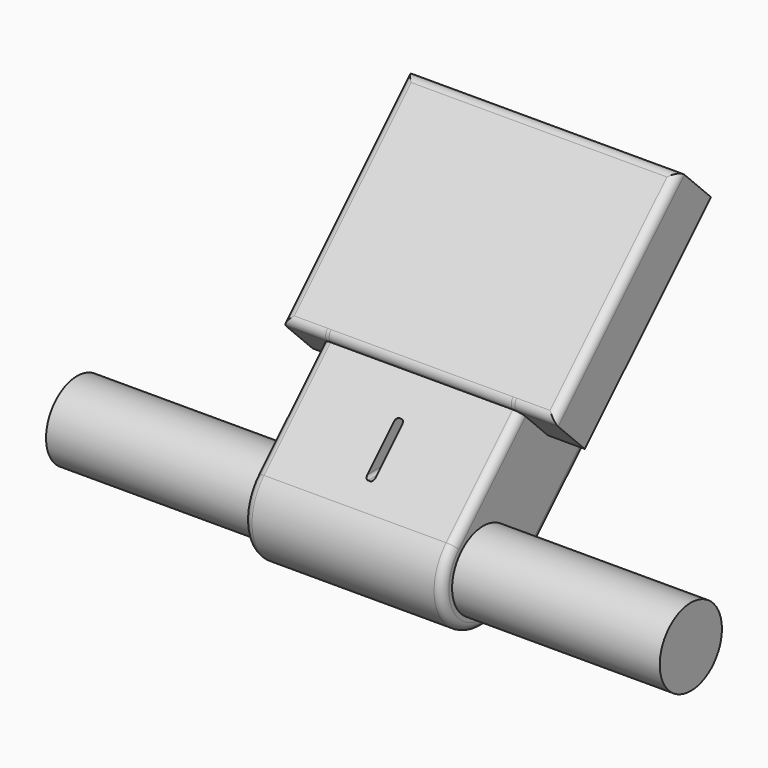
from build123d import *

# Parameters (mm, degrees)
F3_DEPTH  = 61.595
F4_W      = 168.91
F4_H      = 138.43
F5_DEPTH  = 34.29
F6_W      = 80.128736575
F6_H      = 24.2466915269
F7_DEPTH  = 2.54
F8_R      = 1.778
F9_R      = 5.08
F10_R     = 5.08
F11_R     = 24.13
F12_DEPTH = 190.5


with BuildPart() as f3:
    # F2 (on Right) → F3 (new body, symmetric)
    with BuildSketch(Plane.YZ):
        with BuildLine():
            Line((29.2756349547, 74.17691556), (-22.4506403027, 22.4506403027))
            ThreePointArc((-22.4506403027, 22.4506403027), (-22.4506403027, -22.4506403027), (22.4506403027, -22.4506403027))
            Line((22.4506403027, -22.4506403027), (153.7419847927, 108.8407041874))
            Line((153.7419847927, 108.8407041874), (129.8545035107, 132.7281854694))
            Line((129.8545035107, 132.7281854694), (50.289434278, 53.1631162367))
            Line((50.289434278, 53.1631162367), (29.2756349547, 74.17691556))
        make_face()
    extrude(amount=F3_DEPTH, both=True)

    # F4 (on face) → F5 (join)
    with BuildSketch(Plane(origin=(0, -1.4368409794, 1.4368409794), x_dir=(1, 0, 0), z_dir=(0, -0.7071067812, 0.7071067812))):
        with Locations((0, 142.367)):
            Rectangle(F4_W, F4_H)
    extrude(amount=F5_DEPTH)

    # F6 (on Right) → F7 (cut, symmetric)
    with BuildSketch(Plane.YZ):
        with Locations((-11.494727835, 45.5298985338)):
            Rectangle(F6_W, F6_H)
    extrude(amount=F7_DEPTH, both=True, mode=Mode.SUBTRACT)

    # F8
    f8_edges = [f3.edges().sort_by_distance(p)[0] for p in [
        (2.54, 20.660802, 57.653244),
        (-2.54, 20.660802, 57.653244),
        (2.54, 8.537456, 33.406553),
        (-2.54, 8.537456, 33.406553),
    ]]
    fillet(f8_edges, radius=F8_R)

    # F9
    f9_edges = [f3.edges().sort_by_distance(p)[0] for p in [
        (-61.595, 3.412497, 48.313778),
        (61.595, 3.412497, 48.313778),
    ]]
    fillet(f9_edges, radius=F9_R)

    # F10
    f10_edges = [f3.edges().sort_by_distance(p)[0] for p in [
        (84.455, 74.985139, 126.352204),
        (0, 123.927534, 175.294599),
        (-84.455, 74.985139, 126.352204),
        (0, 26.042743, 77.409808),
    ]]
    fillet(f10_edges, radius=F10_R)

    # F11 (on Right) → F12 (join, symmetric)
    with BuildSketch(Plane.YZ):
        Circle(F11_R)
    extrude(amount=F12_DEPTH, both=True)


solid = f3.part
